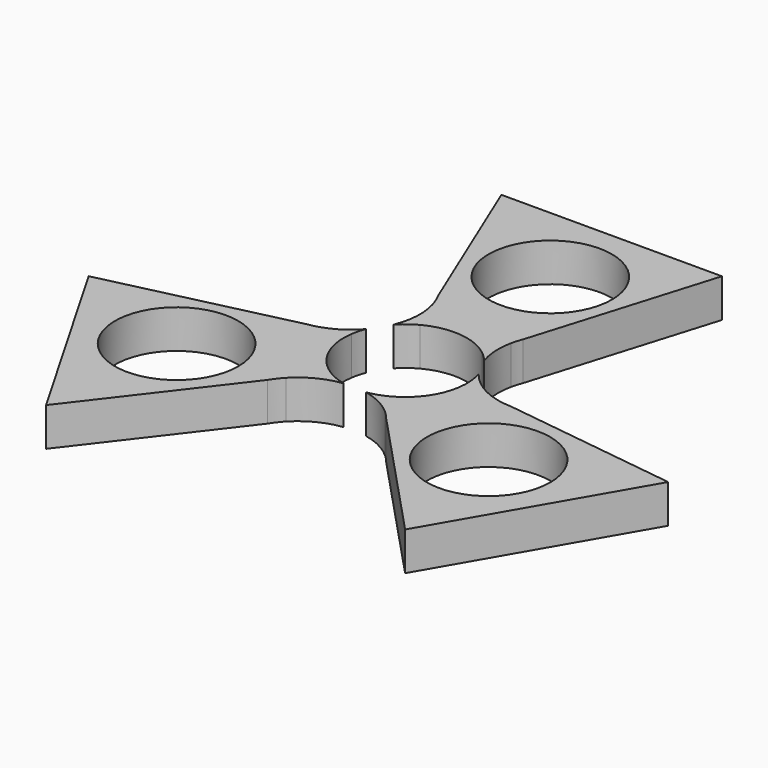
from build123d import *

# Parameters (mm, degrees)
F0_R     = 11.2
F1_DEPTH = 7


with BuildPart() as f1:
    # F0 (on Top) → F1 (new body)
    with BuildSketch(Plane.XY):
        with BuildLine():
            ThreePointArc((-5.2595837188, 9.8882141514), (1.0005355797, 11.1552197896), (6.9352702674, 8.7944315517))
            Line((6.9352702674, 8.7944315517), (8.3880803337, 13.5953459421))
            ThreePointArc((8.3880803337, 13.5953459421), (8.6447320558, 14.5880479762), (8.9815450309, 15.556492324))
            Line((8.9815450309, 15.556492324), (18.9068615437, 48.3554080129))
            Line((18.9068615437, 48.3554080129), (-21.1970992386, 48.3554080129))
            Line((-21.1970992386, 48.3554080129), (-8.8056664665, 18.4471298955))
            ThreePointArc((-8.8056664665, 18.4471298955), (-8.2176746167, 17.2204918982), (-7.7658625488, 15.937432645))
            Line((-7.7658625488, 15.937432645), (-5.2595837188, 9.8882141514))
        make_face()
        with Locations((0, 32.9730696976)):
            Circle(F0_R, mode=Mode.SUBTRACT)
        with BuildLine():
            ThreePointArc((-8.2184282818, 7.6090365078), (-6.8346810134, 8.8728313094), (-5.2595837188, 9.8882141514))
            Line((-5.2595837188, 9.8882141514), (-7.7658625488, 15.937432645))
            ThreePointArc((-7.7658625488, 15.937432645), (-7.2802142561, 11.7345481785), (-8.2184282818, 7.6090365078))
        make_face()
        with BuildLine():
            Line((8.3880803337, 13.5953459421), (6.9352702674, 8.7944315517))
            ThreePointArc((6.9352702674, 8.7944315517), (7.8923023589, 7.9467957993), (8.7465031872, 6.9956187715))
            ThreePointArc((8.7465031872, 6.9956187715), (8.1251282899, 10.2714690168), (8.3880803337, 13.5953459421))
        make_face()
    extrude(amount=F1_DEPTH)


with BuildPart() as f1b:
    # F0 (on Top) → F1, piece 2 (new body)
    with BuildSketch(Plane.XY):
        with BuildLine():
            ThreePointArc((-5.9336527938, -9.4990401895), (-10.1609715124, -4.7111206654), (-11.0838362693, 1.6089044579))
            Line((-11.0838362693, 1.6089044579), (-15.967955126, 0.4666176869))
            ThreePointArc((-15.967955126, 0.4666176869), (-16.9559861669, 0.1925335812), (-17.9630900618, 0))
            Line((-17.9630900618, 0), (-51.3304425213, -7.8038816038))
            Line((-51.3304425213, -7.8038816038), (-31.2784621302, -42.5349304336))
            Line((-31.2784621302, -42.5349304336), (-11.5728498832, -16.849495805))
            ThreePointArc((-11.5728498832, -16.849495805), (-10.8045461412, -15.7269609272), (-9.9192902673, -14.694150572))
            Line((-9.9192902673, -14.694150572), (-5.9336527938, -9.4990401895))
        make_face()
        with Locations((-28.6135822535, -16.1954835057)):
            Circle(F0_R, mode=Mode.SUBTRACT)
        with BuildLine():
            ThreePointArc((-11.0838362693, 1.6089044579), (-10.8282782203, 2.8615364376), (-10.4316351649, 4.0768845686))
            ThreePointArc((-10.4316351649, 4.0768845686), (-12.9579172477, 1.9008329997), (-15.967955126, 0.4666176869))
            Line((-15.967955126, 0.4666176869), (-11.0838362693, 1.6089044579))
        make_face()
        with BuildLine():
            ThreePointArc((-2.4804047732, -10.9218859251), (-4.2667568108, -10.3554230391), (-5.9336527938, -9.4990401895))
            Line((-5.9336527938, -9.4990401895), (-9.9192902673, -14.694150572))
            ThreePointArc((-9.9192902673, -14.694150572), (-6.5223096965, -12.1721245801), (-2.4804047732, -10.9218859251))
        make_face()
    extrude(amount=F1_DEPTH)


with BuildPart() as f1c:
    # F0 (on Top) → F1, piece 3 (new body)
    with BuildSketch(Plane.XY):
        with BuildLine():
            ThreePointArc((20.3785163497, -1.5976340905), (19.0222207578, -1.493530971), (17.685152816, -1.2432820729))
            Line((17.685152816, -1.2432820729), (11.1932365126, -0.3891739619))
            ThreePointArc((11.1932365126, -0.3891739619), (9.1604359327, -6.4440991242), (4.1485660019, -10.4033360096))
            Line((4.1485660019, -10.4033360096), (7.5798747923, -14.061963629))
            ThreePointArc((7.5798747923, -14.061963629), (8.3112541111, -14.7805815574), (8.9815450309, -15.556492324))
            Line((8.9815450309, -15.556492324), (32.4235809777, -40.5515264091))
            Line((32.4235809777, -40.5515264091), (52.4755613688, -5.8204775792))
            Line((52.4755613688, -5.8204775792), (20.3785163497, -1.5976340905))
        make_face()
        with Locations((28.2744250147, -16.3912960288)):
            Circle(F0_R, mode=Mode.SUBTRACT)
        with BuildLine():
            ThreePointArc((17.685152816, -1.2432820729), (13.8025239526, 0.4375764016), (10.698833055, 3.3128494173))
            ThreePointArc((10.698833055, 3.3128494173), (11.0739995082, 1.6752715876), (11.2, 0))
            ThreePointArc((11.2, 0), (11.1983090005, -0.1946163645), (11.1932365126, -0.3891739619))
            Line((11.1932365126, -0.3891739619), (17.685152816, -1.2432820729))
        make_face()
        with BuildLine():
            Line((7.5798747923, -14.061963629), (4.1485660019, -10.4033360096))
            ThreePointArc((4.1485660019, -10.4033360096), (2.9359758614, -10.8083322368), (1.6851319778, -11.0725033401))
            ThreePointArc((1.6851319778, -11.0725033401), (4.8327889577, -12.1723020165), (7.5798747923, -14.061963629))
        make_face()
    extrude(amount=F1_DEPTH)


solid = Compound([f1.part, f1b.part, f1c.part])
